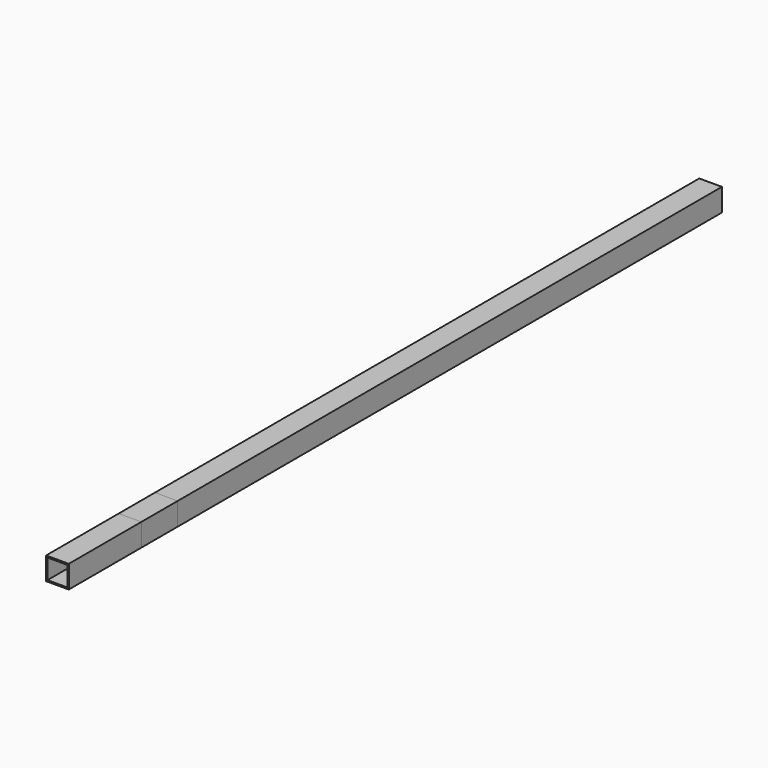
from build123d import *

# Parameters (mm, degrees)
F0_W     = 25.4
F0_H     = 25.4
F0_W_2   = 22.225
F0_H_2   = 22.225
F1_DEPTH = 914.4
F2_DEPTH = 152.4
F3_DEPTH = 381
F4_DEPTH = 381
F5_DEPTH = 635
F6_DEPTH = 812.8
F7_DEPTH = 114.3
F8_DEPTH = 762


with BuildPart() as f1:
    # F0 (on Front) → F1 (new body)
    with BuildSketch(Plane.XZ):
        with Locations((12.7, 12.7)):
            Rectangle(F0_W, F0_H)
        with Locations((12.7, 12.7)):
            Rectangle(F0_W_2, F0_H_2, mode=Mode.SUBTRACT)
    extrude(amount=F1_DEPTH)


with BuildPart() as f2:
    # F0 (on Front) → F2 (new body)
    with BuildSketch(Plane.XZ):
        with Locations((12.7, 12.7)):
            Rectangle(F0_W, F0_H)
        with Locations((12.7, 12.7)):
            Rectangle(F0_W_2, F0_H_2, mode=Mode.SUBTRACT)
    extrude(amount=F2_DEPTH)


with BuildPart() as f3:
    # F0 (on Front) → F3 (new body)
    with BuildSketch(Plane.XZ):
        with Locations((12.7, 12.7)):
            Rectangle(F0_W, F0_H)
        with Locations((12.7, 12.7)):
            Rectangle(F0_W_2, F0_H_2, mode=Mode.SUBTRACT)
    extrude(amount=F3_DEPTH)


with BuildPart() as f4:
    # F0 (on Front) → F4 (new body)
    with BuildSketch(Plane.XZ):
        with Locations((12.7, 12.7)):
            Rectangle(F0_W, F0_H)
        with Locations((12.7, 12.7)):
            Rectangle(F0_W_2, F0_H_2, mode=Mode.SUBTRACT)
    extrude(amount=F4_DEPTH)


with BuildPart() as f5:
    # F0 (on Front) → F5 (new body)
    with BuildSketch(Plane.XZ):
        with Locations((12.7, 12.7)):
            Rectangle(F0_W, F0_H)
        with Locations((12.7, 12.7)):
            Rectangle(F0_W_2, F0_H_2, mode=Mode.SUBTRACT)
    extrude(amount=F5_DEPTH)


with BuildPart() as f6:
    # F0 (on Front) → F6 (new body)
    with BuildSketch(Plane.XZ):
        with Locations((12.7, 12.7)):
            Rectangle(F0_W, F0_H)
        with Locations((12.7, 12.7)):
            Rectangle(F0_W_2, F0_H_2, mode=Mode.SUBTRACT)
    extrude(amount=F6_DEPTH)


with BuildPart() as f7:
    # F0 (on Front) → F7 (new body)
    with BuildSketch(Plane.XZ):
        with Locations((12.7, 12.7)):
            Rectangle(F0_W, F0_H)
        with Locations((12.7, 12.7)):
            Rectangle(F0_W_2, F0_H_2, mode=Mode.SUBTRACT)
    extrude(amount=F7_DEPTH)


with BuildPart() as f8:
    # F0 (on Front) → F8 (new body)
    with BuildSketch(Plane.XZ):
        with Locations((12.7, 12.7)):
            Rectangle(F0_W, F0_H)
        with Locations((12.7, 12.7)):
            Rectangle(F0_W_2, F0_H_2, mode=Mode.SUBTRACT)
    extrude(amount=F8_DEPTH)


solid = Compound([f1.part, f2.part, f3.part, f4.part, f5.part, f6.part, f7.part, f8.part])
